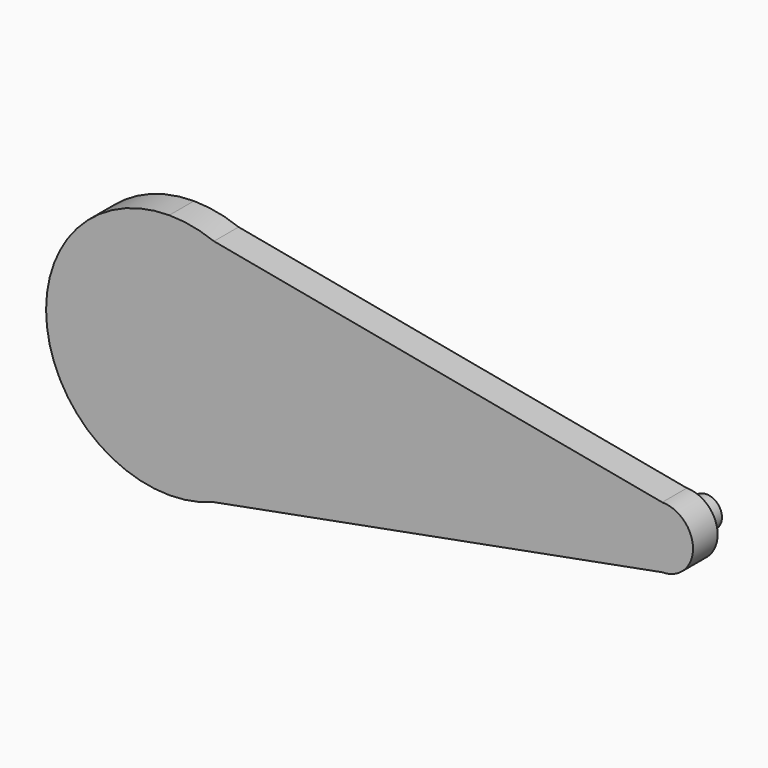
from build123d import *

# Parameters (mm, degrees)
F1_DEPTH = 3.175
F2_R     = 1.5875
F3_DEPTH = 2.54


with BuildPart() as f1:
    # F0 (on Front) → F1 (new body)
    with BuildSketch(Plane.XZ):
        with BuildLine():
            Line((0, 12.7), (4.600755, 11.837358))
            ThreePointArc((4.600755, 11.837358), (2.340464, 12.482477), (0, 12.7))
        make_face()
        with BuildLine():
            Line((50.8, 3.175), (4.600755, 11.837358))
            Line((4.600755, 11.837358), (0, 12.7))
            ThreePointArc((0, 12.7), (-12.7, 0), (0, -12.7))
            Line((0, -12.7), (4.600755, -11.837358))
            Line((4.600755, -11.837358), (50.8, -3.175))
            ThreePointArc((50.8, -3.175), (53.975, 0), (50.8, 3.175))
        make_face()
        with BuildLine():
            Line((4.600755, -11.837358), (0, -12.7))
            ThreePointArc((0, -12.7), (2.340464, -12.482477), (4.600755, -11.837358))
        make_face()
    extrude(amount=F1_DEPTH)

    # F2 (on face) → F3 (join)
    with BuildSketch(Plane(origin=(0, 0, 0), x_dir=(-1, 0, 0), z_dir=(0, 1, 0))):
        with Locations((-50.8, 0)):
            Circle(F2_R)
    extrude(amount=F3_DEPTH)


solid = f1.part
